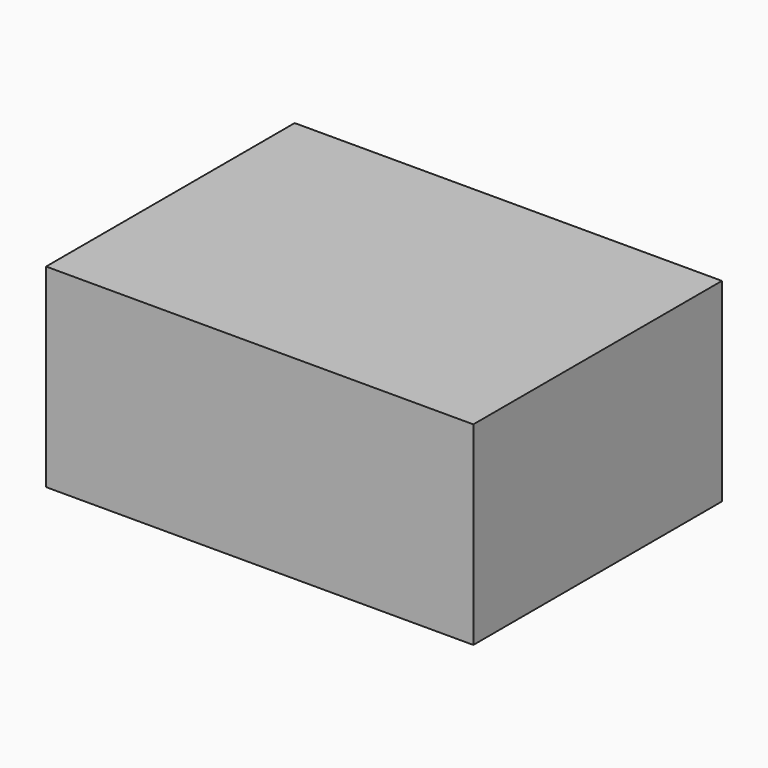
from build123d import *

# Parameters (mm, degrees)
SKETCH_W  = 110
SKETCH_H  = 80
PAD_DEPTH = 50


with BuildPart() as part:
    # Sketch → Pad (new body)
    with BuildSketch(Plane.XY):
        with Locations((55, 40)):
            Rectangle(SKETCH_W, SKETCH_H)
    extrude(amount=PAD_DEPTH)


solid = part.part
